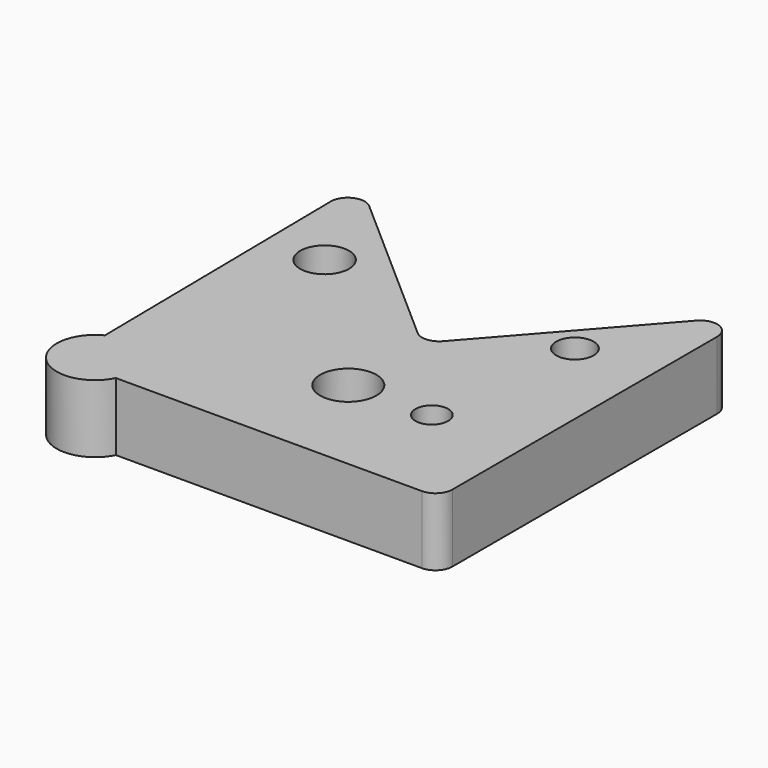
from build123d import *

# Parameters (mm, degrees)
F0_R     = 10.541320471
F0_R_2   = 6.1126798391
F0_R_3   = 9.1526488731
F0_R_4   = 7.0165037238
F1_DEPTH = 25.4


with BuildPart() as f1:
    # F0 (on Top) → F1 (new body)
    with BuildSketch(Plane.XY):
        with BuildLine():
            Line((-4.7674861177, 4.1944697063), (-66.1349890024, 58.186054673))
            ThreePointArc((-66.1349890024, 58.186054673), (-72.9834338853, 59.1873566223), (-76.6789119685, 53.3352420778))
            Line((-76.6789119685, 53.3352420778), (-75.2697106846, -54.0454843656))
            ThreePointArc((-75.2697106846, -54.0454843656), (-61.2610211403, -54.5901608737), (-54.4092417947, -66.8209897518))
            ThreePointArc((-54.4092417947, -66.8209897518), (-54.7847384565, -70.0813496551), (-55.8915665889, -73.1709897518))
            Line((-55.8915665889, -73.1709897518), (58.6898780261, -73.1709897518))
            ThreePointArc((58.6898780261, -73.1709897518), (63.1800060866, -71.3111178124), (65.0398780261, -66.8209897518))
            Line((65.0398780261, -66.8209897518), (65.0398780261, 57.094387493))
            ThreePointArc((65.0398780261, 57.094387493), (60.9314135659, 63.035601041), (53.9223919084, 61.2888571993))
            Line((53.9223919084, 61.2888571993), (4.1944697063, 4.7674861177))
            ThreePointArc((4.1944697063, 4.7674861177), (-0.1678326212, 2.6248960882), (-4.7674861177, 4.1944697063))
        make_face()
        with Locations((0, -34.257248044)):
            Circle(F0_R, mode=Mode.SUBTRACT)
        with Locations((30.853793025, -33.7257087231)):
            Circle(F0_R_2, mode=Mode.SUBTRACT)
        with Locations((-54.9895986915, 23.4146341681)):
            Circle(F0_R_3, mode=Mode.SUBTRACT)
        with Locations((37.2322499752, 25.2750143409)):
            Circle(F0_R_4, mode=Mode.SUBTRACT)
        with BuildLine():
            ThreePointArc((-54.4092417947, -66.8209897518), (-61.2610211403, -54.5901608737), (-75.2697106846, -54.0454843656))
            Line((-75.2697106846, -54.0454843656), (-75.1009589638, -66.9043162293))
            ThreePointArc((-75.1009589638, -66.9043162293), (-73.2120761197, -71.3404821532), (-68.751505704, -73.1709897518))
            Line((-68.751505704, -73.1709897518), (-55.8915665889, -73.1709897518))
            ThreePointArc((-55.8915665889, -73.1709897518), (-54.7847384565, -70.0813496551), (-54.4092417947, -66.8209897518))
        make_face()
        with BuildLine():
            Line((-75.1009589638, -66.9043162293), (-75.2697106846, -54.0454843656))
            ThreePointArc((-75.2697106846, -54.0454843656), (-78.8262581589, -77.0288248316), (-55.8915665889, -73.1709897518))
            Line((-55.8915665889, -73.1709897518), (-68.751505704, -73.1709897518))
            ThreePointArc((-68.751505704, -73.1709897518), (-73.2120761197, -71.3404821532), (-75.1009589638, -66.9043162293))
        make_face()
    extrude(amount=F1_DEPTH)


solid = f1.part
